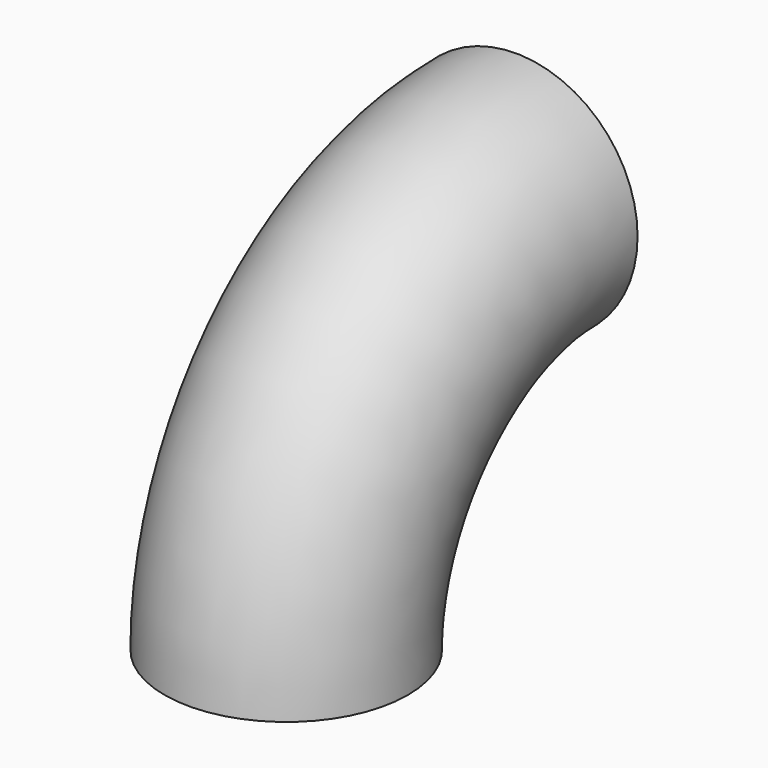
from build123d import *

# Parameters (mm, degrees)
F1_R   = 21.2
F1_R_2 = 18.6


with BuildPart() as f2:
    # F2: sweep along a path in F0
    with BuildLine(Plane.YZ) as f2_path:
        ThreePointArc((50, 50), (14.644661, 35.355339), (0, 0))
    # F1 (on Top) → F2 (sweep)
    with BuildSketch(Plane.XY):
        Circle(F1_R)
        Circle(F1_R_2, mode=Mode.SUBTRACT)
    sweep(path=f2_path.line)


solid = f2.part
